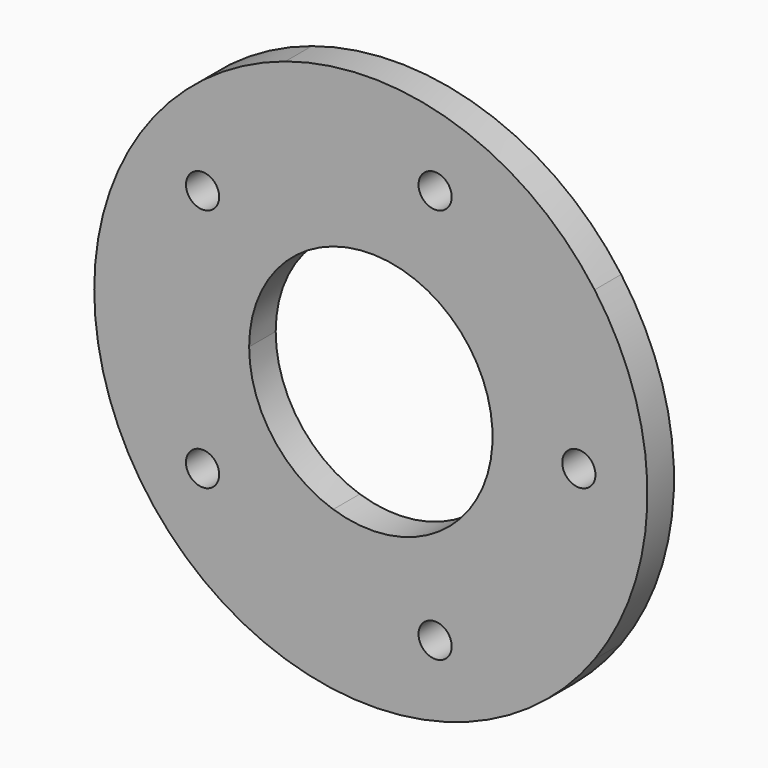
from build123d import *

# Parameters (mm, degrees)
F0_R     = 1.5
F1_DEPTH = 3


with BuildPart() as f1:
    # F0 (on Front) → F1 (new body)
    with BuildSketch(Plane.XZ):
        with BuildLine():
            ThreePointArc((20.225425, 14.694631), (7.725425, 23.776413), (-7.725425, 23.776413))
            ThreePointArc((-7.725425, 23.776413), (-20.225425, 14.694631), (-25, 0))
            ThreePointArc((-25, 0), (-20.225425, -14.694631), (-7.725425, -23.776413))
            ThreePointArc((-7.725425, -23.776413), (7.725425, -23.776413), (20.225425, -14.694631))
            ThreePointArc((20.225425, -14.694631), (25, 0), (20.225425, 14.694631))
        make_face()
        with Locations((-15.20821, -11.049411)):
            Circle(F0_R, mode=Mode.SUBTRACT)
        with Locations((5.809019, -17.878323)):
            Circle(F0_R, mode=Mode.SUBTRACT)
        with Locations((-15.20821, 11.049411)):
            Circle(F0_R, mode=Mode.SUBTRACT)
        with BuildLine():
            ThreePointArc((-11, 0), (-8.899187, 6.465638), (-3.399187, 10.461622))
            ThreePointArc((-3.399187, 10.461622), (3.399187, 10.461622), (8.899187, 6.465638))
            ThreePointArc((8.899187, 6.465638), (11, 0), (8.899187, -6.465638))
            ThreePointArc((8.899187, -6.465638), (3.399187, -10.461622), (-3.399187, -10.461622))
            ThreePointArc((-3.399187, -10.461622), (-8.899187, -6.465638), (-11, 0))
        make_face(mode=Mode.SUBTRACT)
        with Locations((18.798381, 0)):
            Circle(F0_R, mode=Mode.SUBTRACT)
        with Locations((5.809019, 17.878323)):
            Circle(F0_R, mode=Mode.SUBTRACT)
    extrude(amount=F1_DEPTH)


solid = f1.part
